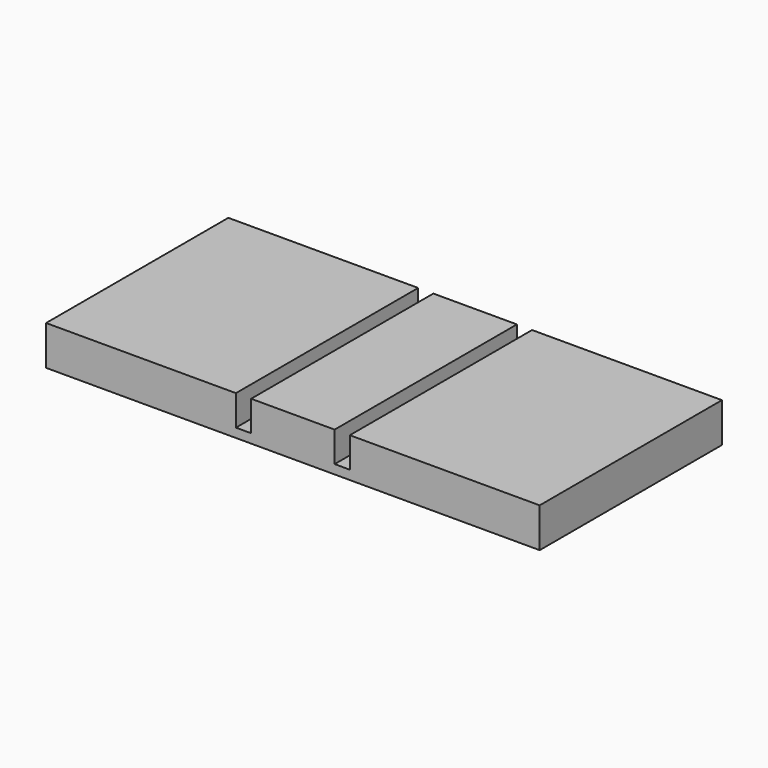
from build123d import *

# Parameters (mm, degrees)
F0_W     = 65
F0_H     = 30
F1_DEPTH = 1.2
F2_W     = 25
F2_H     = 30
F2_W_2   = 11
F3_DEPTH = 4


with BuildPart() as f1:
    # F0 (on Top) → F1 (new body)
    with BuildSketch(Plane.XY):
        with Locations((32.5, 15)):
            Rectangle(F0_W, F0_H)
    extrude(amount=F1_DEPTH)

    # F2 (on face) → F3 (join)
    with BuildSketch(Plane.XY.offset(1.2)):
        with Locations((12.5, 15)):
            Rectangle(F2_W, F2_H)
        with Locations((52.5, 15)):
            Rectangle(F2_W, F2_H)
        with Locations((32.5, 15)):
            Rectangle(F2_W_2, F2_H)
    extrude(amount=F3_DEPTH)


solid = f1.part
